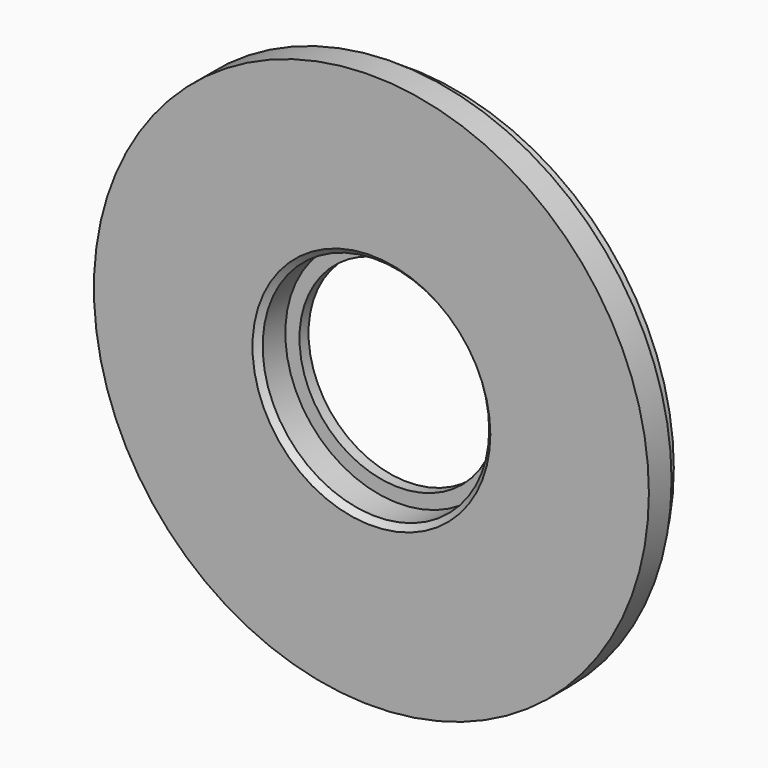
from build123d import *

# Parameters (mm, degrees)
F2_SIZE = 1


with BuildPart() as f1:
    # F0 (on Top) → F1 (revolve)
    with BuildSketch(Plane.XY):
        Polygon((20, 0), (49, 0), (49, 5), (47, 5), (47, 8), (17.5, 8), (17.5, 6), (20, 6), align=None)
    revolve(axis=Axis((0, 170.113654, 0), (0, 1, 0)))

    # F2
    f2_edges = [f1.edges().sort_by_distance(p)[0] for p in [
        (-20, 0, 0),
    ]]
    chamfer(f2_edges, length=F2_SIZE)


solid = f1.part
